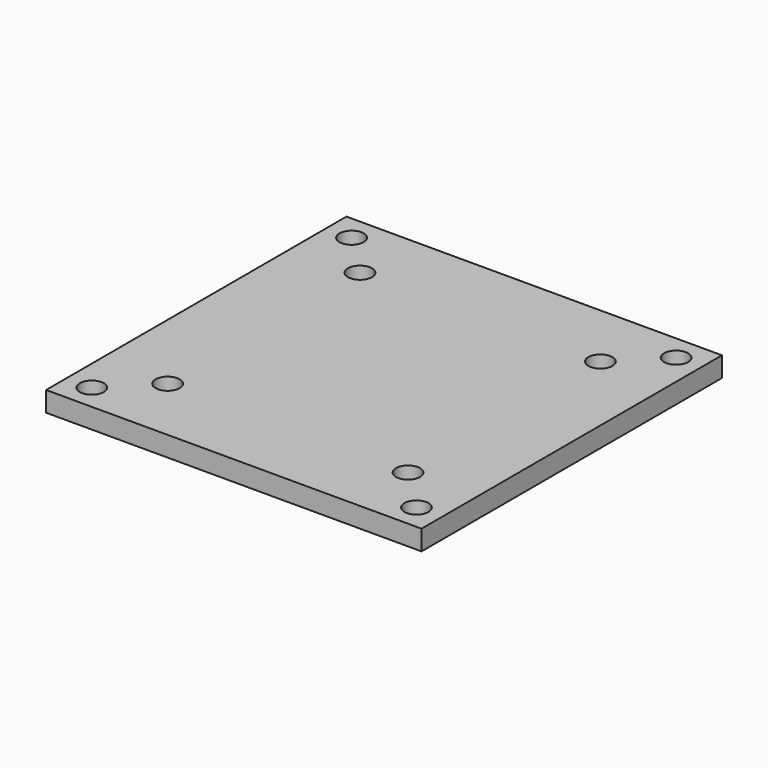
from build123d import *

# Parameters (mm, degrees)
F0_W     = 46.85
F0_H     = 46.85
F0_R     = 1.5
F1_DEPTH = 2.5


with BuildPart() as f1:
    # F0 (on Top) → F1 (new body)
    with BuildSketch(Plane.XY):
        Rectangle(F0_W, F0_H)
        with Locations((-20.25, -20.25)):
            Circle(F0_R, mode=Mode.SUBTRACT)
        with Locations((-15, -15)):
            Circle(F0_R, mode=Mode.SUBTRACT)
        with Locations((20.25, -20.25)):
            Circle(F0_R, mode=Mode.SUBTRACT)
        with Locations((15, -15)):
            Circle(F0_R, mode=Mode.SUBTRACT)
        with Locations((-15, 15)):
            Circle(F0_R, mode=Mode.SUBTRACT)
        with Locations((-20.25, 20.25)):
            Circle(F0_R, mode=Mode.SUBTRACT)
        with Locations((15, 15)):
            Circle(F0_R, mode=Mode.SUBTRACT)
        with Locations((20.25, 20.25)):
            Circle(F0_R, mode=Mode.SUBTRACT)
    extrude(amount=F1_DEPTH)


solid = f1.part
